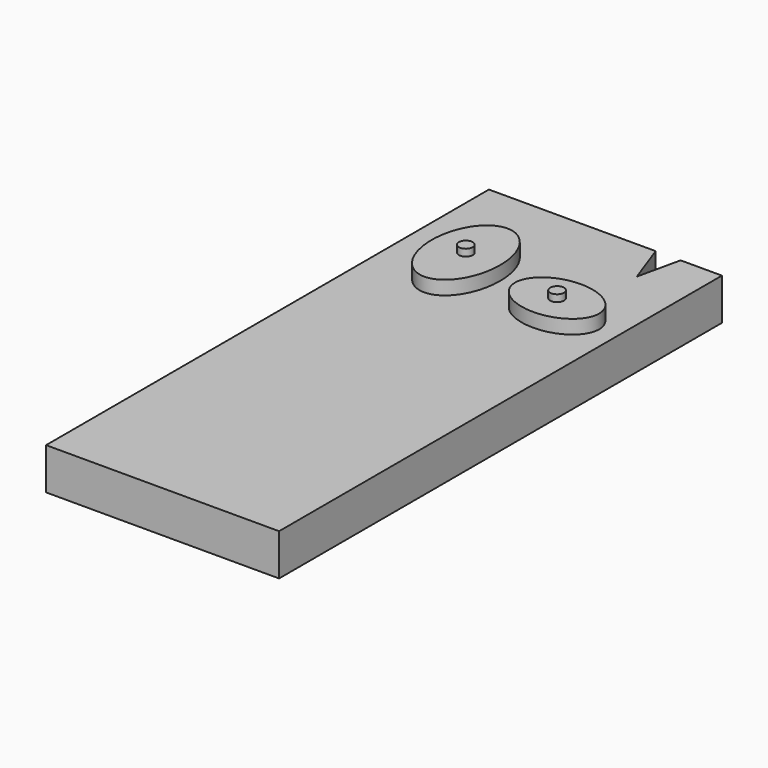
from build123d import *

# Parameters (mm, degrees)
F1_DEPTH = 3
F0_R     = 0.5
F2_DEPTH = 4
F3_DEPTH = 4.5


with BuildPart() as f1:
    # F0 (on Top) → F1 (new body)
    with BuildSketch(Plane.XY):
        Polygon((-42.22717, 54.8594), (-54.246616, 54.8594), (-54.246616, 14.957247), (-37.451323, 14.957247), (-37.451323, 54.8594), (-40.430126, 54.8594), (-41.114714, 51.767185), align=None)
        with BuildLine():
            add(Edge.make_bspline(
                [(-49.261443, 42.794443), (-44.9895, 42.794443), (-47.125472, 48.428944), (-49.261443, 54.063445), (-51.397415, 48.428944), (-53.533386, 42.794443), (-49.261443, 42.794443)],
                knots=[0, 0, 0, 2.094395, 2.094395, 4.18879, 4.18879, 6.283185, 6.283185, 6.283185], degree=2, weights=[1, 0.5, 1, 0.5, 1, 0.5, 1]))
        make_face(mode=Mode.SUBTRACT)
        with BuildLine():
            add(Edge.make_bspline(
                [(-38.755624, 45.423176), (-38.755624, 49.162015), (-43.297707, 47.292595), (-47.83979, 45.423176), (-43.297707, 43.553757), (-38.755624, 41.684338), (-38.755624, 45.423176)],
                knots=[0, 0, 0, 2.094395, 2.094395, 4.18879, 4.18879, 6.283185, 6.283185, 6.283185], degree=2, weights=[1, 0.5, 1, 0.5, 1, 0.5, 1]))
        make_face(mode=Mode.SUBTRACT)
    extrude(amount=F1_DEPTH)

    # F0 (on Top) → F2 (join)
    with BuildSketch(Plane.XY):
        with BuildLine():
            add(Edge.make_bspline(
                [(-49.261443, 42.794443), (-44.9895, 42.794443), (-47.125472, 48.428944), (-49.261443, 54.063445), (-51.397415, 48.428944), (-53.533386, 42.794443), (-49.261443, 42.794443)],
                knots=[0, 0, 0, 2.094395, 2.094395, 4.18879, 4.18879, 6.283185, 6.283185, 6.283185], degree=2, weights=[1, 0.5, 1, 0.5, 1, 0.5, 1]))
        make_face()
        with Locations((-49.261443, 46.550777)):
            Circle(F0_R, mode=Mode.SUBTRACT)
        with BuildLine():
            add(Edge.make_bspline(
                [(-38.755624, 45.423176), (-38.755624, 49.162015), (-43.297707, 47.292595), (-47.83979, 45.423176), (-43.297707, 43.553757), (-38.755624, 41.684338), (-38.755624, 45.423176)],
                knots=[0, 0, 0, 2.094395, 2.094395, 4.18879, 4.18879, 6.283185, 6.283185, 6.283185], degree=2, weights=[1, 0.5, 1, 0.5, 1, 0.5, 1]))
        make_face()
        with Locations((-41.783679, 45.423176)):
            Circle(F0_R, mode=Mode.SUBTRACT)
    extrude(amount=F2_DEPTH)

    # F0 (on Top) → F3 (join)
    with BuildSketch(Plane.XY):
        with Locations((-49.261443, 46.550777)):
            Circle(F0_R)
        with Locations((-41.783679, 45.423176)):
            Circle(F0_R)
    extrude(amount=F3_DEPTH)


solid = f1.part
